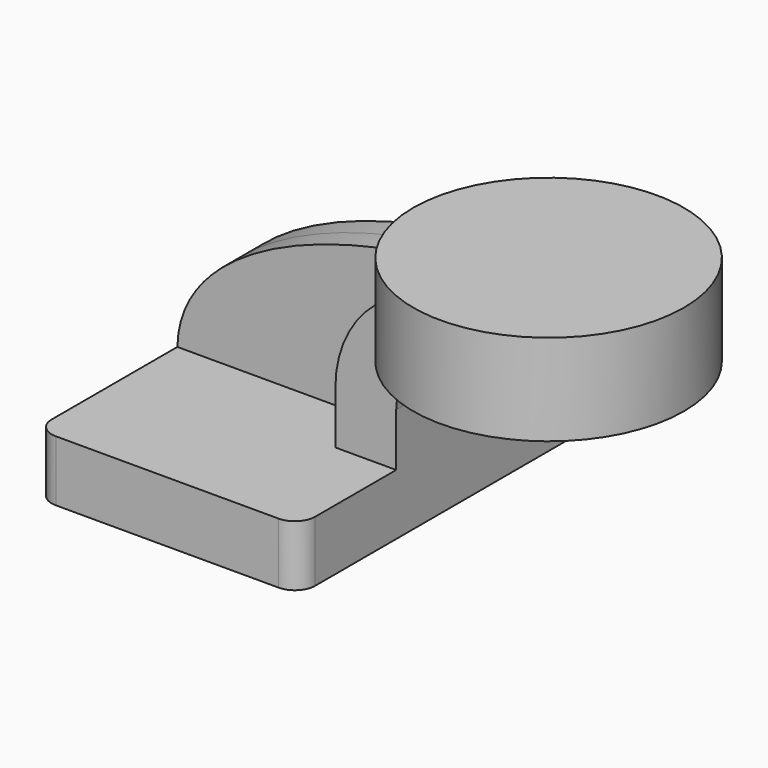
from build123d import *

# Parameters (mm, degrees)
F1_DEPTH = 63.5
F0_W     = 8.383435
F0_H     = 19.05
F2_DEPTH = 25.4
F3_DEPTH = 7.9375
F5_R     = 6.35


with BuildPart() as f1:
    # F0 (on Front) → F1 (new body, symmetric)
    with BuildSketch(Plane.XZ):
        Polygon((-41.275, 9.525), (-41.275, -9.525), (41.275, -9.525), (41.275, 9.525), (22.225, 9.525), align=None)
    extrude(amount=F1_DEPTH, both=True)

    # F0 (on Front) → F2 (join, symmetric)
    with BuildSketch(Plane.XZ):
        with BuildLine():
            Line((22.225, 9.525), (41.275, 9.525))
            Line((41.275, 9.525), (41.275, 26.141635))
            ThreePointArc((41.275, 26.141635), (44.340935, 35.519453), (52.354492, 41.275))
            Line((52.354492, 41.275), (60.325, 41.275))
            Line((60.325, 41.275), (60.325, 60.325))
            Line((60.325, 60.325), (49.990866, 60.325))
            ThreePointArc((49.990866, 60.325), (30.041068, 48.161205), (22.225, 26.141635))
            Line((22.225, 26.141635), (22.225, 9.525))
        make_face()
        with Locations((64.516717, 50.8)):
            Rectangle(F0_W, F0_H)
    extrude(amount=F2_DEPTH, both=True)

    # F0 (on Front) → F3 (join, symmetric)
    with BuildSketch(Plane.XZ):
        with BuildLine():
            add(Edge.make_bspline(
                [(-41.275, 9.525), (-40.494805, 46.327003), (24.913717, 63.209177), (60.325, 60.325)],
                knots=[0, 0, 0, 0, 113.592253, 113.592253, 113.592253, 113.592253], degree=3))
            Line((-41.275, 9.525), (22.225, 9.525))
            Line((22.225, 9.525), (22.225, 26.141635))
            ThreePointArc((22.225, 26.141635), (30.041068, 48.161205), (49.990866, 60.325))
            Line((49.990866, 60.325), (60.325, 60.325))
        make_face()
    extrude(amount=F3_DEPTH, both=True)

    # F0 (on Front) → F4 (revolve)
    with BuildSketch(Plane.XZ):
        Polygon((68.708435, 66.675), (68.708435, 60.325), (68.708435, 41.275), (68.708435, 38.1), (111.125, 38.1), (111.125, 66.675), align=None)
    revolve(axis=Axis((68.708435, 0, 52.3875), (0, 0, -1)))

    # F5
    f5_edges = [f1.edges().sort_by_distance(p)[0] for p in [
        (-41.275, -63.5, 0),
        (41.275, -63.5, 0),
        (-41.275, 63.5, 0),
        (41.275, 63.5, 0),
    ]]
    fillet(f5_edges, radius=F5_R)


solid = f1.part
